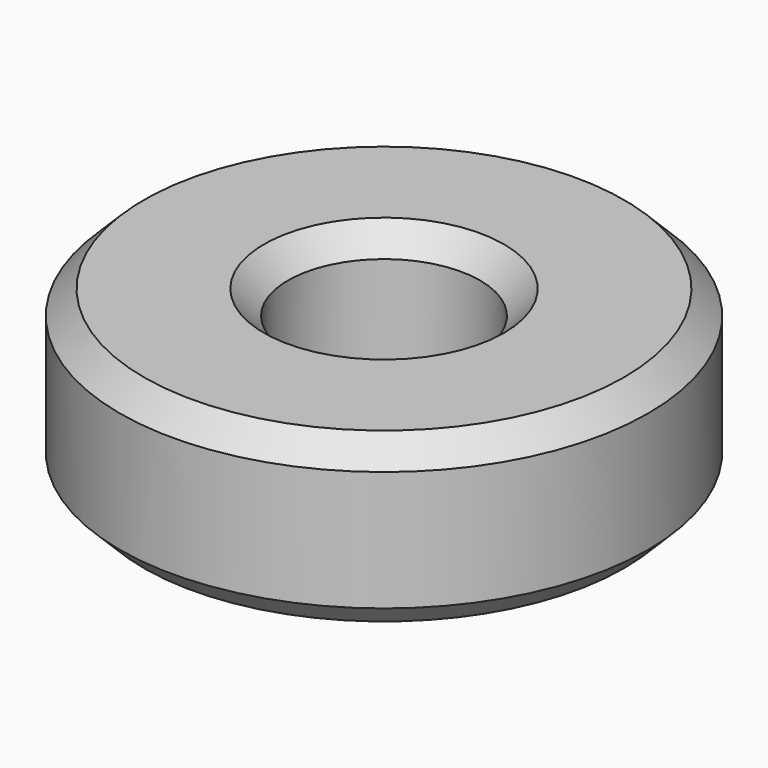
from build123d import *

# Parameters (mm, degrees)
F0_R     = 11
F0_R_2   = 4
F1_DEPTH = 7
F2_SIZE  = 1


with BuildPart() as f1:
    # F0 (on Top) → F1 (new body)
    with BuildSketch(Plane.XY):
        Circle(F0_R)
        Circle(F0_R_2, mode=Mode.SUBTRACT)
    extrude(amount=F1_DEPTH)

    # F2
    f2_edges = [f1.edges().sort_by_distance(p)[0] for p in [
        (-11, 0, 7),
        (-11, 0, 0),
        (4, 0, 3.5),
        (-4, 0, 0),
        (-4, 0, 7),
    ]]
    chamfer(f2_edges, length=F2_SIZE)


solid = f1.part
